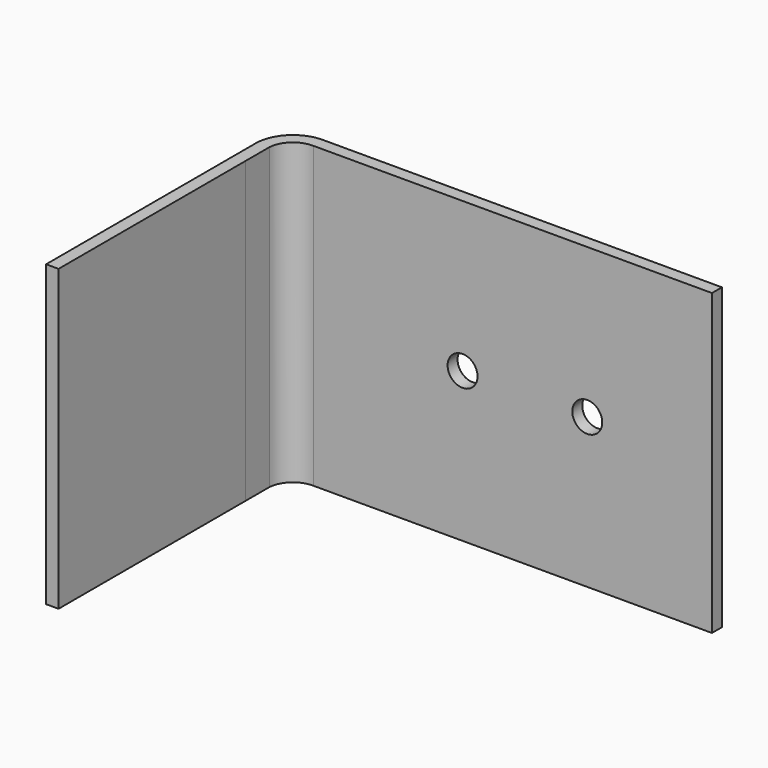
from build123d import *

# Parameters (mm, degrees)
F1_DEPTH = 120
F2_R     = 6
F3_DEPTH = 5


with BuildPart() as f1:
    # F0 (on Top) → F1 (new body)
    with BuildSketch(Plane.XY):
        with BuildLine():
            Line((120.464271, 36.765282), (-39.183099, 36.765282))
            ThreePointArc((-39.183099, 36.765282), (-50.372007, 32.173501), (-54.535729, 20.818346))
            Line((-54.535729, 20.818346), (-54.535729, -83.234718))
            Line((-54.535729, -83.234718), (-49.535177, -83.234718))
            Line((-49.535177, -83.234718), (-49.536819, 10.563834))
            Line((-49.536819, 10.563834), (-49.537028, 22.530258))
            ThreePointArc((-49.537028, 22.530258), (-46.279821, 29.181243), (-39.340395, 31.767623))
            Line((-39.340395, 31.767623), (-28.383342, 31.767623))
            Line((-28.383342, 31.767623), (120.464271, 31.767623))
            Line((120.464271, 31.767623), (120.464271, 36.765282))
        make_face()
    extrude(amount=F1_DEPTH)

    # F2 (on face) → F3 (cut)
    with BuildSketch(Plane(origin=(0, 36.765282, 0), x_dir=(-1, 0, 0), z_dir=(0, 1, 0))):
        with Locations((-70.464271, 60)):
            Circle(F2_R)
        with Locations((-20.464271, 60)):
            Circle(F2_R)
    extrude(amount=-F3_DEPTH, mode=Mode.SUBTRACT)


solid = f1.part
